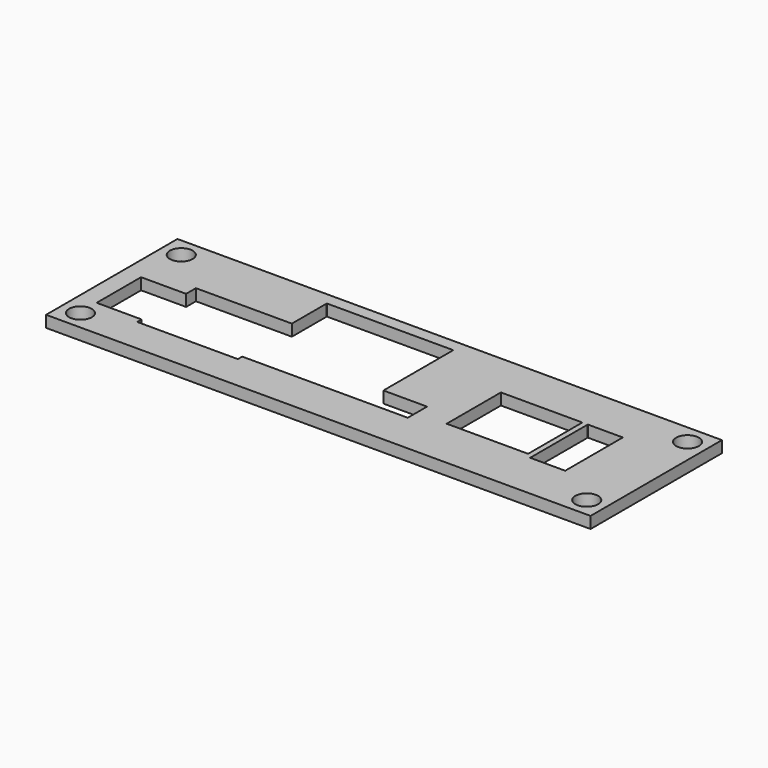
from build123d import *

# Parameters (mm, degrees)
F0_W     = 3040.38
F0_H     = 916.94
F1_DEPTH = 64.516


with BuildPart() as f1:
    # F0 (on Top) → F1 (new body)
    with BuildSketch(Plane.XY):
        Rectangle(F0_W, F0_H)
        with BuildLine():
            ThreePointArc((-1413.51, -288.29), (-1350.01, -351.79), (-1413.51, -415.29))
            ThreePointArc((-1413.51, -415.29), (-1477.01, -351.79), (-1413.51, -288.29))
        make_face(mode=Mode.SUBTRACT)
        with BuildLine():
            ThreePointArc((1413.51, -288.29), (1477.01, -351.79), (1413.51, -415.29))
            ThreePointArc((1413.51, -415.29), (1350.01, -351.79), (1413.51, -288.29))
        make_face(mode=Mode.SUBTRACT)
        with BuildLine():
            Line((-1167.765, -232.41), (-1417.955, -232.41))
            ThreePointArc((-1417.955, -232.41), (-1418.140987, -232.859013), (-1418.59, -233.045))
            ThreePointArc((-1418.59, -233.045), (-1419.039013, -232.859013), (-1419.225, -232.41))
            ThreePointArc((-1419.225, -232.41), (-1419.039013, -231.960987), (-1418.59, -231.775))
            Line((-1418.59, -231.775), (-1418.59, 76.835))
            ThreePointArc((-1418.59, 76.835), (-1419.039013, 77.020987), (-1419.225, 77.47))
            ThreePointArc((-1419.225, 77.47), (-1419.039013, 77.919013), (-1418.59, 78.105))
            ThreePointArc((-1418.59, 78.105), (-1418.140987, 77.919013), (-1417.955, 77.47))
            Line((-1417.955, 77.47), (-1167.765, 77.47))
            Line((-1167.765, 77.47), (-1167.13, 77.47))
            Line((-1167.13, 77.47), (-1167.13, 78.105))
            Line((-1167.13, 78.105), (-1167.13, 145.415))
            ThreePointArc((-1167.13, 145.415), (-1167.579013, 145.600987), (-1167.765, 146.05))
            ThreePointArc((-1167.765, 146.05), (-1167.579013, 146.499013), (-1167.13, 146.685))
            ThreePointArc((-1167.13, 146.685), (-1166.680987, 146.499013), (-1166.495, 146.05))
            Line((-1166.495, 146.05), (-631.825, 146.05))
            Line((-631.825, 146.05), (-631.19, 146.05))
            Line((-631.19, 146.05), (-631.19, 146.685))
            Line((-631.19, 146.685), (-631.19, 389.255))
            ThreePointArc((-631.19, 389.255), (-631.639013, 389.440987), (-631.825, 389.89))
            ThreePointArc((-631.825, 389.89), (-631.639013, 390.339013), (-631.19, 390.525))
            ThreePointArc((-631.19, 390.525), (-630.740987, 390.339013), (-630.555, 389.89))
            Line((-630.555, 389.89), (74.295, 389.89))
            ThreePointArc((74.295, 389.89), (74.480987, 390.339013), (74.93, 390.525))
            ThreePointArc((74.93, 390.525), (75.379013, 390.339013), (75.565, 389.89))
            ThreePointArc((75.565, 389.89), (75.379013, 389.440987), (74.93, 389.255))
            Line((74.93, 389.255), (74.93, -97.155))
            Line((74.93, -97.155), (74.93, -97.79))
            Line((74.93, -97.79), (75.565, -97.79))
            Line((75.565, -97.79), (318.135, -97.79))
            ThreePointArc((318.135, -97.79), (318.320987, -97.340987), (318.77, -97.155))
            ThreePointArc((318.77, -97.155), (319.219013, -97.340987), (319.405, -97.79))
            ThreePointArc((319.405, -97.79), (319.219013, -98.239013), (318.77, -98.425))
            Line((318.77, -98.425), (318.77, -231.775))
            ThreePointArc((318.77, -231.775), (319.219013, -231.960987), (319.405, -232.41))
            ThreePointArc((319.405, -232.41), (319.219013, -232.859013), (318.77, -233.045))
            ThreePointArc((318.77, -233.045), (318.320987, -232.859013), (318.135, -232.41))
            Line((318.135, -232.41), (-605.155, -232.41))
            Line((-605.155, -232.41), (-605.79, -232.41))
            Line((-605.79, -232.41), (-605.79, -233.045))
            Line((-605.79, -233.045), (-605.79, -262.255))
            ThreePointArc((-605.79, -262.255), (-605.340987, -262.440987), (-605.155, -262.89))
            ThreePointArc((-605.155, -262.89), (-605.340987, -263.339013), (-605.79, -263.525))
            ThreePointArc((-605.79, -263.525), (-606.239013, -263.339013), (-606.425, -262.89))
            Line((-606.425, -262.89), (-1166.495, -262.89))
            ThreePointArc((-1166.495, -262.89), (-1166.680987, -263.339013), (-1167.13, -263.525))
            ThreePointArc((-1167.13, -263.525), (-1167.579013, -263.339013), (-1167.765, -262.89))
            ThreePointArc((-1167.765, -262.89), (-1167.579013, -262.440987), (-1167.13, -262.255))
            Line((-1167.13, -262.255), (-1167.13, -233.045))
            Line((-1167.13, -233.045), (-1167.13, -232.41))
            Line((-1167.13, -232.41), (-1167.765, -232.41))
        make_face(mode=Mode.SUBTRACT)
        with BuildLine():
            ThreePointArc((-1413.51, 415.29), (-1350.01, 351.79), (-1413.51, 288.29))
            ThreePointArc((-1413.51, 288.29), (-1477.01, 351.79), (-1413.51, 415.29))
        make_face(mode=Mode.SUBTRACT)
        with BuildLine():
            Line((940.435, -170.434), (487.045, -170.434))
            ThreePointArc((487.045, -170.434), (486.859013, -170.883013), (486.41, -171.069))
            ThreePointArc((486.41, -171.069), (485.960987, -170.883013), (485.775, -170.434))
            ThreePointArc((485.775, -170.434), (485.960987, -169.984987), (486.41, -169.799))
            Line((486.41, -169.799), (486.41, 207.391))
            ThreePointArc((486.41, 207.391), (485.960987, 207.576987), (485.775, 208.026))
            ThreePointArc((485.775, 208.026), (485.960987, 208.475013), (486.41, 208.661))
            ThreePointArc((486.41, 208.661), (486.859013, 208.475013), (487.045, 208.026))
            Line((487.045, 208.026), (940.435, 208.026))
            ThreePointArc((940.435, 208.026), (940.620987, 208.475013), (941.07, 208.661))
            ThreePointArc((941.07, 208.661), (941.519013, 208.475013), (941.705, 208.026))
            ThreePointArc((941.705, 208.026), (941.519013, 207.576987), (941.07, 207.391))
            Line((941.07, 207.391), (941.07, -169.799))
            ThreePointArc((941.07, -169.799), (941.519013, -169.984987), (941.705, -170.434))
            ThreePointArc((941.705, -170.434), (941.519013, -170.883013), (941.07, -171.069))
            ThreePointArc((941.07, -171.069), (940.620987, -170.883013), (940.435, -170.434))
        make_face(mode=Mode.SUBTRACT)
        with BuildLine():
            Line((1166.495, -194.31), (972.185, -194.31))
            ThreePointArc((972.185, -194.31), (971.999013, -194.759013), (971.55, -194.945))
            ThreePointArc((971.55, -194.945), (971.100987, -194.759013), (970.915, -194.31))
            ThreePointArc((970.915, -194.31), (971.100987, -193.860987), (971.55, -193.675))
            Line((971.55, -193.675), (971.55, 207.391))
            ThreePointArc((971.55, 207.391), (971.100987, 207.576987), (970.915, 208.026))
            ThreePointArc((970.915, 208.026), (971.100987, 208.475013), (971.55, 208.661))
            ThreePointArc((971.55, 208.661), (971.999013, 208.475013), (972.185, 208.026))
            Line((972.185, 208.026), (1166.495, 208.026))
            ThreePointArc((1166.495, 208.026), (1166.680987, 208.475013), (1167.13, 208.661))
            ThreePointArc((1167.13, 208.661), (1167.579013, 208.475013), (1167.765, 208.026))
            ThreePointArc((1167.765, 208.026), (1167.579013, 207.576987), (1167.13, 207.391))
            Line((1167.13, 207.391), (1167.13, -193.675))
            ThreePointArc((1167.13, -193.675), (1167.579013, -193.860987), (1167.765, -194.31))
            ThreePointArc((1167.765, -194.31), (1167.579013, -194.759013), (1167.13, -194.945))
            ThreePointArc((1167.13, -194.945), (1166.680987, -194.759013), (1166.495, -194.31))
        make_face(mode=Mode.SUBTRACT)
        with BuildLine():
            ThreePointArc((1413.51, 415.29), (1477.01, 351.79), (1413.51, 288.29))
            ThreePointArc((1413.51, 288.29), (1350.01, 351.79), (1413.51, 415.29))
        make_face(mode=Mode.SUBTRACT)
    extrude(amount=F1_DEPTH)


solid = f1.part
